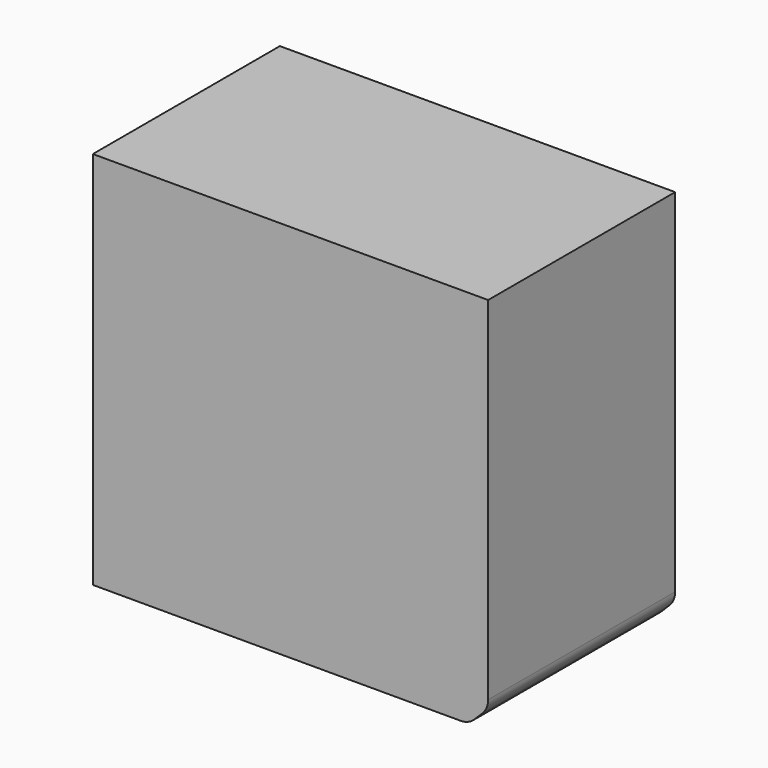
from build123d import *

# Parameters (mm, degrees)
F0_W     = 103.1671874225
F0_H     = 99.0072153509
F1_DEPTH = 61.00262
F2_SIZE  = 5.08
F3_R     = 5.08


with BuildPart() as f1:
    # F0 (on Front) → F1 (new body)
    with BuildSketch(Plane.XZ):
        with Locations((-0.1124907285, 2.3048538715)):
            Rectangle(F0_W, F0_H)
    extrude(amount=F1_DEPTH)

    # F2
    f2_edges = [f1.edges().sort_by_distance(p)[0] for p in [
        (51.471103, -30.50131, -47.198754),
    ]]
    chamfer(f2_edges, length=F2_SIZE)

    # F3
    f3_edges = [f1.edges().sort_by_distance(p)[0] for p in [
        (51.471103, -30.50131, -42.118754),
        (46.391103, -30.50131, -47.198754),
    ]]
    fillet(f3_edges, radius=F3_R)


solid = f1.part
